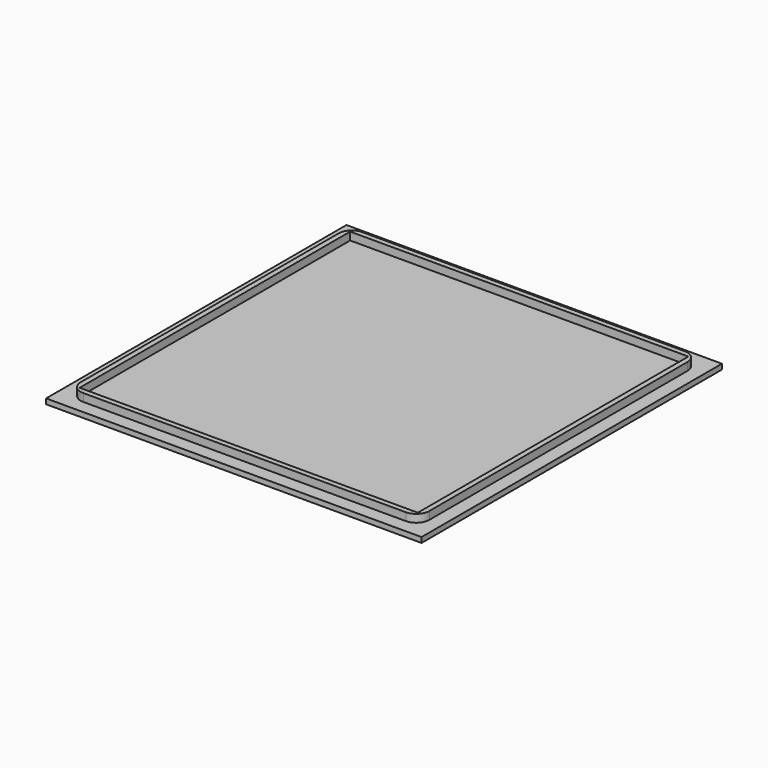
from build123d import *

# Parameters (mm, degrees)
F0_W     = 144
F0_H     = 144
F2_DEPTH = 2
F1_W     = 133.7
F1_H     = 133.7
F1_W_2   = 129.7
F1_H_2   = 129.7
F3_DEPTH = 5
F4_R     = 5


with BuildPart() as f2:
    # F0 (on Top) → F2 (new body)
    with BuildSketch(Plane.XY):
        with Locations((25.086074, 76.876128)):
            Rectangle(F0_W, F0_H)
    extrude(amount=F2_DEPTH)

    # F1 (on face) → F3 (join)
    with BuildSketch(Plane.XY):
        with Locations((25.086074, 76.876128)):
            Rectangle(F1_W, F1_H)
        with Locations((25.086074, 76.876128)):
            Rectangle(F1_W_2, F1_H_2, mode=Mode.SUBTRACT)
    extrude(amount=F3_DEPTH)

    # F4
    f4_edges = [f2.edges().sort_by_distance(p)[0] for p in [
        (-41.763926, 143.726128, 3.5),
        (91.936074, 143.726128, 3.5),
        (-41.763926, 10.026128, 3.5),
        (91.936074, 10.026128, 3.5),
    ]]
    fillet(f4_edges, radius=F4_R)


solid = f2.part
